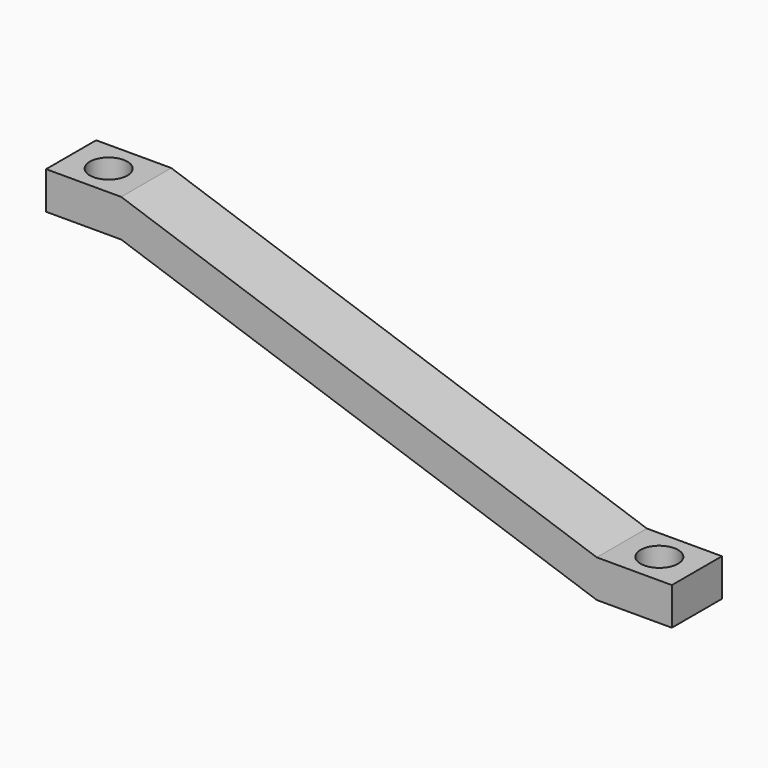
from build123d import *

# Parameters (mm, degrees)
F0_W     = 6
F0_H     = 3
F1_DEPTH = 5
F2_R     = 1.5
F3_DEPTH = 100
F4_DEPTH = 100


with BuildPart() as f1:
    # F0 (on Front) → F1 (new body)
    with BuildSketch(Plane.XZ):
        with Locations((-12.822277, 42.440869)):
            Rectangle(F0_W, F0_H)
        Polygon((28.177723, 30.940869), (-9.822277, 43.940869), (-9.822277, 40.940869), (28.177723, 27.940869), align=None)
        with Locations((31.177723, 29.440869)):
            Rectangle(F0_W, F0_H)
    extrude(amount=F1_DEPTH)

    # F2 (on Top) → F3 (cut)
    with BuildSketch(Plane.XY):
        with Locations((-12.822277, -2.5)):
            Circle(F2_R)
    extrude(amount=F3_DEPTH, mode=Mode.SUBTRACT)

    # F2 (on Top) → F4 (cut)
    with BuildSketch(Plane.XY):
        with Locations((-12.822277, -2.5)):
            Circle(F2_R)
        with Locations((31.177723, -2.5)):
            Circle(F2_R)
    extrude(amount=F4_DEPTH, mode=Mode.SUBTRACT)


solid = f1.part
